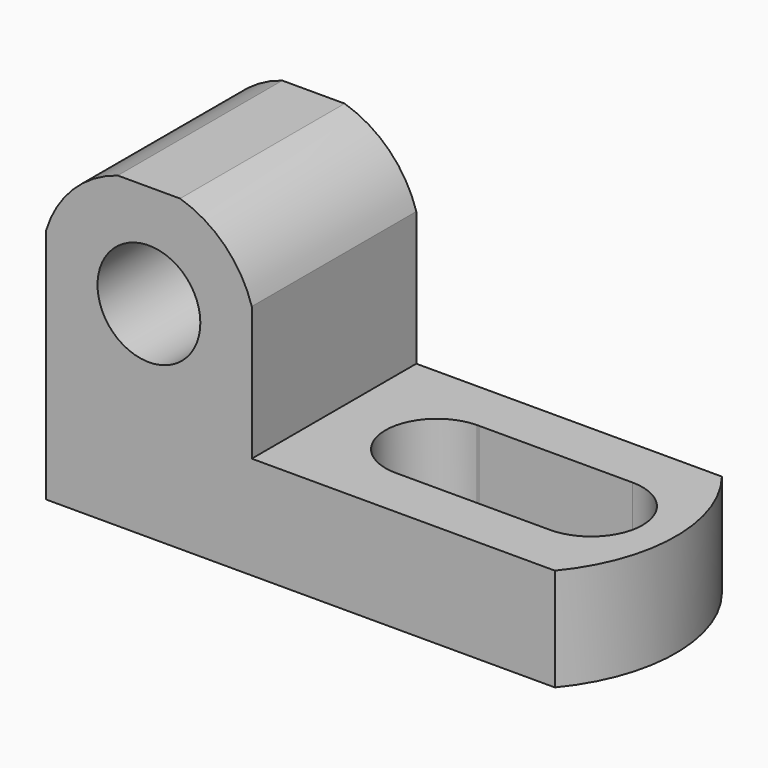
from build123d import *

# Parameters (mm, degrees)
F1_DEPTH = 25.4
F2_R     = 6.35
F3_DEPTH = 25.4
F5_DEPTH = 25.4
F7_DEPTH = 25.4


with BuildPart() as f1:
    # F0 (on Front) → F1 (new body)
    with BuildSketch(Plane.XZ):
        Polygon((0, 38.1), (0, 0), (69.85, 0), (69.85, 12.7), (25.4, 12.7), (25.4, 38.1), align=None)
    extrude(amount=F1_DEPTH)

    # F2 (on face) → F3 (cut)
    with BuildSketch(Plane.XZ.offset(25.4)):
        with Locations((12.7, 25.4)):
            Circle(F2_R)
    extrude(amount=-F3_DEPTH, mode=Mode.SUBTRACT)

    # F4 (on face) → F5 (cut)
    with BuildSketch(Plane.XZ.offset(25.4)):
        with BuildLine():
            ThreePointArc((0, 29.248118894), (3.3165566282, 34.7834433718), (8.851881106, 38.1))
            Line((8.851881106, 38.1), (0, 38.1))
            Line((0, 38.1), (0, 29.248118894))
        make_face()
        with BuildLine():
            ThreePointArc((16.548118894, 38.1), (22.0834433718, 34.7834433718), (25.4, 29.248118894))
            Line((25.4, 29.248118894), (25.4, 38.1))
            Line((25.4, 38.1), (16.548118894, 38.1))
        make_face()
    extrude(amount=-F5_DEPTH, mode=Mode.SUBTRACT)

    # F6 (on face) → F7 (cut)
    with BuildSketch(Plane.XY.offset(12.7)):
        with BuildLine():
            Line((38.209768584, -6.3509488222), (37.9895952922, -6.350959852))
            ThreePointArc((37.9895952922, -6.350959852), (31.7505322918, -12.7822181363), (38.1540299444, -19.0497701348))
            ThreePointArc((38.1540299444, -19.0497701348), (42.6091900684, -17.1709847826), (44.45, -12.7))
            ThreePointArc((44.45, -12.7), (42.6287708326, -8.2488501771), (38.209768584, -6.3509488222))
        make_face()
        with BuildLine():
            ThreePointArc((44.45, -12.7), (42.6091900684, -17.1709847826), (38.1540299444, -19.0497701348))
            Line((38.1540299444, -19.0497701348), (57.1499231602, -19.0499999995))
            ThreePointArc((57.1499231602, -19.0499999995), (50.8000000011, -12.700120635), (57.1496818903, -6.350000008))
            Line((57.1496818903, -6.350000008), (38.209768584, -6.3509488222))
            ThreePointArc((38.209768584, -6.3509488222), (42.6287708326, -8.2488501771), (44.45, -12.7))
        make_face()
        with BuildLine():
            ThreePointArc((57.1496818903, -6.350000008), (50.8000000011, -12.700120635), (57.1499231602, -19.0499999995))
            ThreePointArc((57.1499231602, -19.0499999995), (61.6401008935, -17.1901552274), (63.5, -12.7))
            ThreePointArc((63.5, -12.7), (61.6400155904, -8.2097594721), (57.1496818903, -6.350000008))
        make_face()
        with BuildLine():
            ThreePointArc((63.1413459778, 0), (67.4724972226, -12.7546630792), (62.8318339586, -25.4))
            Line((62.8318339586, -25.4), (69.85, -25.4))
            Line((69.85, -25.4), (69.85, 0))
            Line((69.85, 0), (63.1413459778, 0))
        make_face()
    extrude(amount=-F7_DEPTH, mode=Mode.SUBTRACT)


solid = f1.part
